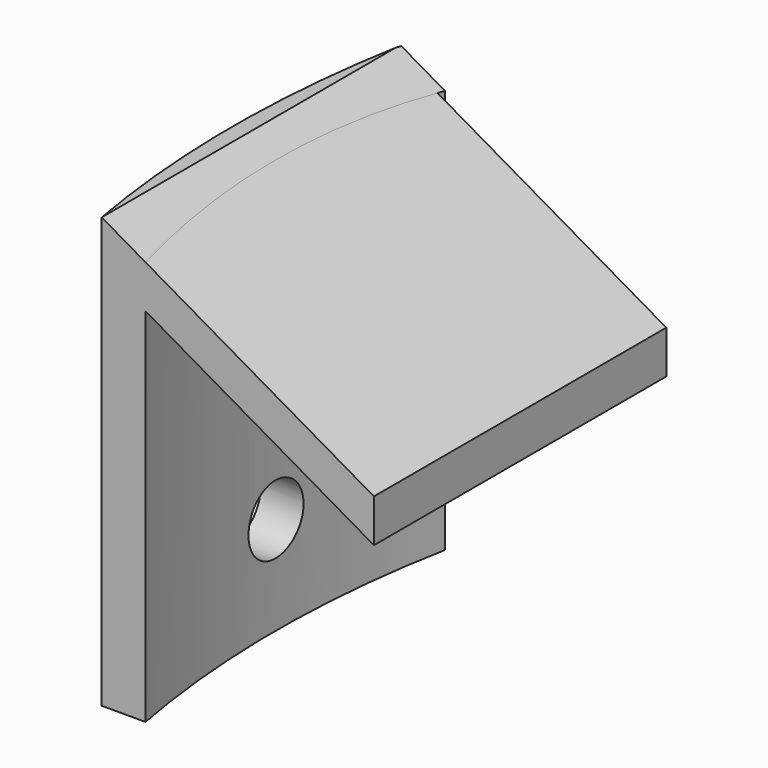
from build123d import *

# Parameters (mm, degrees)
PAD011_DEPTH            = 20
PAD012_DEPTH            = 17
POCKET007_DEPTH         = 17.359799
SKETCH024_R             = 1.6
POCKET008_DEPTH         = 48.751
BODY008_PLACEMENT_ANGLE = 180


with BuildPart() as part:
    # Sketch021 → Pad011 (new body)
    with BuildSketch(Plane.XY):
        with BuildLine():
            ThreePointArc((47.995272, -8.544961), (48.749809, 0.136622), (47.946624, 8.813839))
            Line((45.911641, 8.813839), (47.946624, 8.813839))
            ThreePointArc((45.962443, -8.544961), (46.7498, 0.136818), (45.911641, 8.813839))
            Line((45.962443, -8.544961), (47.995272, -8.544961))
        make_face()
    extrude(amount=PAD011_DEPTH)

    # Sketch022 (on Face1 of Pad011) → Pad012 (join)
    with BuildSketch(Plane.XZ.offset(8.544961)):
        Polygon((47.995272, 0), (35.335121, 7.309342), (35.335121, 9.309342), (47.995272, 2), align=None)
    extrude(amount=-PAD012_DEPTH)

    # Sketch023 (on Face1 of Pad012) → Pocket007 (cut, through all)
    with BuildSketch(Plane.XZ.offset(8.544961)):
        Polygon((43.159527, 2.791919), (47.995272, 0), (43.159527, 0), align=None)
    extrude(amount=-POCKET007_DEPTH, mode=Mode.SUBTRACT)

    # Sketch024 → Pocket008 (cut, through all)
    with BuildSketch(Plane.YZ):
        with Locations((0, 15.434235)):
            Circle(SKETCH024_R)
    extrude(amount=POCKET008_DEPTH, mode=Mode.SUBTRACT)


with BuildPart() as part_1:
    # Body008 placement: moved
    add(part.part.moved(Location((-0.78, 0, 26.9))).rotate(Axis((-0.78, 0, 26.9), (0, 1, 0)), BODY008_PLACEMENT_ANGLE))


solid = part_1.part
